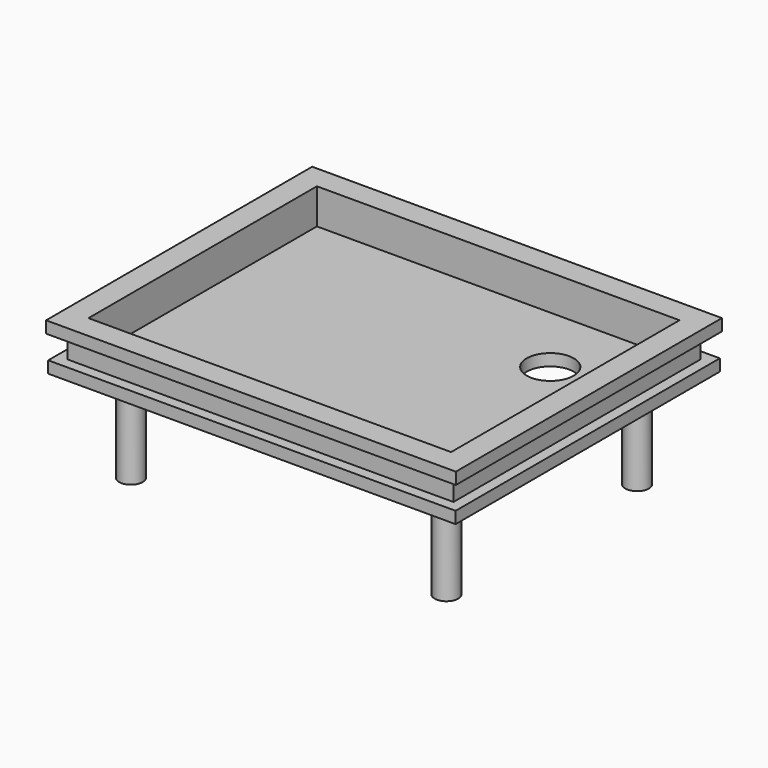
from build123d import *

# Parameters (mm, degrees)
F1_DEPTH  = 2.5
F2_W      = 30.8
F2_H      = 24.25
F3_DEPTH  = 1.5
F4_DEPTH  = 1.5
F5_W      = 1
F5_H      = 2
F6_DEPTH  = 28.251
F7_W      = 1
F7_H      = 2
F8_DEPTH  = 28.251
F9_W      = 1
F9_H      = 2
F10_DEPTH = 33.801
F11_W     = 1
F11_H     = 2
F12_DEPTH = 33.801
F15_R     = 1
F13_R     = 1
F16_R     = 1
F17_DEPTH = 8.1
F18_W     = 34.8
F18_H     = 28.25
F18_W_2   = 34.6
F18_H_2   = 28.05
F19_DEPTH = 1
F20_R     = 2
F21_DEPTH = 4.001


with BuildPart() as f1:
    # F0 (on Top) → F1 (new body)
    with BuildSketch(Plane.XY):
        Polygon((-17.4, 14.125), (-17.4, -14.125), (0, 0), align=None)
        Polygon((0, 0), (-17.4, -14.125), (17.4, -14.125), align=None)
        Polygon((0, 0), (17.4, -14.125), (17.4, 14.125), align=None)
        Polygon((17.4, 14.125), (-17.4, 14.125), (0, 0), align=None)
    extrude(amount=F1_DEPTH)

    # F2 (on face) → F3 (cut)
    with BuildSketch(Plane.XY.offset(2.5)):
        Rectangle(F2_W, F2_H)
    extrude(amount=-F3_DEPTH, mode=Mode.SUBTRACT)

    # F4 (add): a face of the model
    f4_faces = [f1.faces().sort_by_distance(p)[0] for p in [
        (-16.9517698694, 0, 2.5),
    ]]
    extrude(f4_faces, amount=F4_DEPTH)

    # F5 (on face) → F6 (cut, through all)
    with BuildSketch(Plane.XZ.offset(14.125)):
        with Locations((-16.9, 2)):
            Rectangle(F5_W, F5_H)
    extrude(amount=-F6_DEPTH, mode=Mode.SUBTRACT)

    # F7 (on face) → F8 (cut, through all)
    with BuildSketch(Plane.XZ.offset(14.125)):
        with Locations((16.9, 2)):
            Rectangle(F7_W, F7_H)
    extrude(amount=-F8_DEPTH, mode=Mode.SUBTRACT)

    # F9 (on face) → F10 (cut, through all)
    with BuildSketch(Plane(origin=(-16.4, 0, 0), x_dir=(0, -1, 0), z_dir=(-1, 0, 0))):
        with Locations((13.625, 2)):
            Rectangle(F9_W, F9_H)
    extrude(amount=-F10_DEPTH, mode=Mode.SUBTRACT)

    # F11 (on face) → F12 (cut, through all)
    with BuildSketch(Plane.YZ.offset(16.4)):
        with Locations((13.625, 2)):
            Rectangle(F11_W, F11_H)
    extrude(amount=-F12_DEPTH, mode=Mode.SUBTRACT)

    # F15 (on face) + F13 (on face) + F16 (on face) → F17 (join)
    with BuildSketch(Plane(origin=(0, 0, 0), x_dir=(1, 0, 0), z_dir=(0, 0, -1))):
        with Locations((-13.4, -10.125)):
            Circle(F15_R)
        with Locations((-13.4, 10.125)):
            Circle(F15_R)
    with BuildSketch(Plane(origin=(0, 0, 0), x_dir=(1, 0, 0), z_dir=(0, 0, -1))):
        with Locations((13.4, -10.125)):
            Circle(F13_R)
    with BuildSketch(Plane(origin=(0, 0, 0), x_dir=(1, 0, 0), z_dir=(0, 0, -1))):
        with Locations((13.4, 10.125)):
            Circle(F16_R)
    extrude(amount=F17_DEPTH)

    # F18 (on face) → F19 (cut, through all)
    with BuildSketch(Plane(origin=(0, 0, 0), x_dir=(1, 0, 0), z_dir=(0, 0, -1))):
        Rectangle(F18_W, F18_H)
        Rectangle(F18_W_2, F18_H_2, mode=Mode.SUBTRACT)
    extrude(amount=-F19_DEPTH, mode=Mode.SUBTRACT)

    # F20 (on face) → F21 (cut, through all)
    with BuildSketch(Plane(origin=(0, 0, 0), x_dir=(1, 0, 0), z_dir=(0, 0, -1))):
        with Locations((9.3, -6.025)):
            Circle(F20_R)
    extrude(amount=-F21_DEPTH, mode=Mode.SUBTRACT)


solid = f1.part
